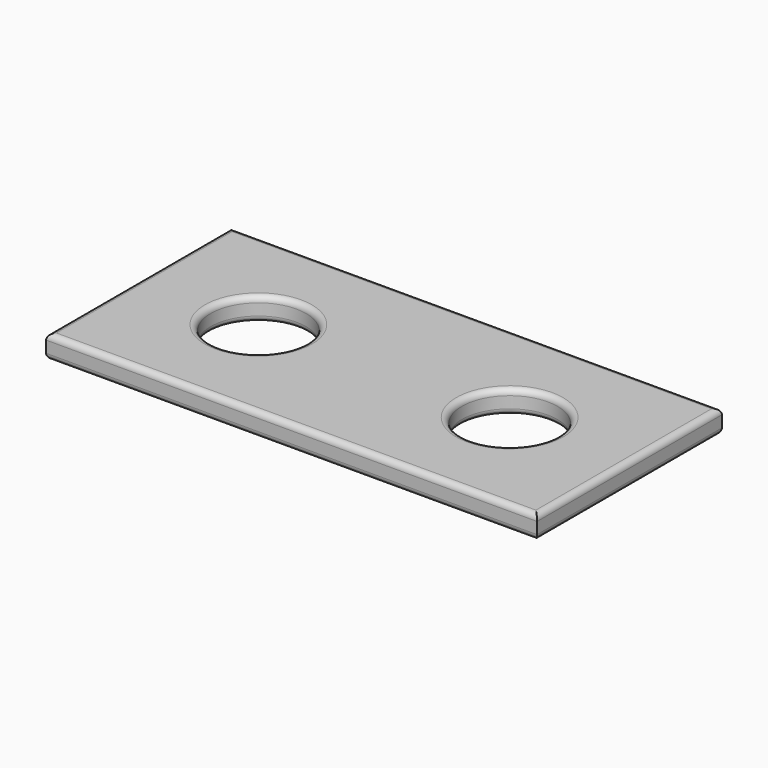
from build123d import *

# Parameters (mm, degrees)
F0_W     = 170
F0_H     = 80
F0_R     = 16.5
F1_DEPTH = 4
F2_R     = 2


with BuildPart() as f1:
    # F0 (on Top) → F1 (new body, symmetric)
    with BuildSketch(Plane.XY):
        Rectangle(F0_W, F0_H)
        with Locations((-43.5, 0)):
            Circle(F0_R, mode=Mode.SUBTRACT)
        with Locations((43.5, 0)):
            Circle(F0_R, mode=Mode.SUBTRACT)
    extrude(amount=F1_DEPTH, both=True)

    # F2
    f2_edges = [f1.edges().sort_by_distance(p)[0] for p in [
        (85, 0, -4),
        (0, 40, -4),
        (-85, 0, -4),
        (0, -40, -4),
        (-60, 0, -4),
        (27, 0, -4),
        (85, 0, 4),
        (0, 40, 4),
        (-85, 0, 4),
        (0, -40, 4),
        (-60, 0, 4),
        (27, 0, 4),
    ]]
    fillet(f2_edges, radius=F2_R)


solid = f1.part
